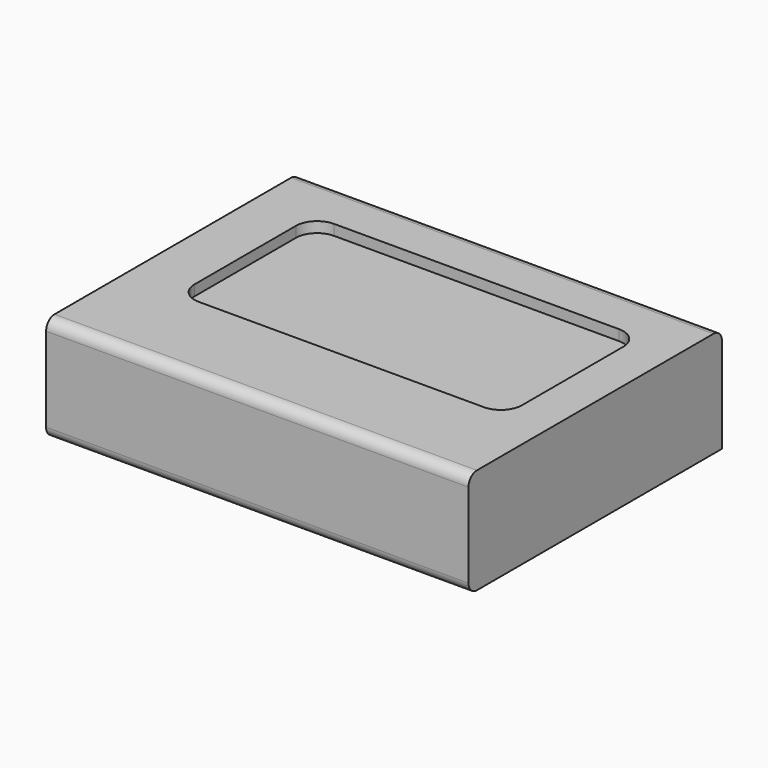
from build123d import *

# Parameters (mm, degrees)
F1_DEPTH = 200
F3_DEPTH = 5


with BuildPart() as f1:
    # F0 (on Right) → F1 (new body)
    with BuildSketch(Plane.YZ):
        with BuildLine():
            ThreePointArc((-23.804154, -13.036255), (-22.339688, -16.571789), (-18.804154, -18.036255))
            Line((-18.804154, -18.036255), (126.195846, -18.036255))
            Line((126.195846, -18.036255), (126.195846, 26.963745))
            ThreePointArc((126.195846, 26.963745), (124.73138, 30.499279), (121.195846, 31.963745))
            Line((121.195846, 31.963745), (-18.804154, 31.963745))
            ThreePointArc((-18.804154, 31.963745), (-22.339688, 30.499279), (-23.804154, 26.963745))
            Line((-23.804154, 26.963745), (-23.804154, -13.036255))
        make_face()
    extrude(amount=F1_DEPTH)

    # F2 (on face) → F3 (cut)
    with BuildSketch(Plane.XY.offset(31.963745)):
        with BuildLine():
            ThreePointArc((25.45396, 32.277167), (28.382892, 25.206099), (35.45396, 22.277167))
            Line((35.45396, 22.277167), (170.45396, 22.277167))
            ThreePointArc((170.45396, 22.277167), (177.525028, 25.206099), (180.45396, 32.277167))
            Line((180.45396, 32.277167), (180.45396, 92.277167))
            ThreePointArc((180.45396, 92.277167), (177.525028, 99.348235), (170.45396, 102.277167))
            Line((170.45396, 102.277167), (35.45396, 102.277167))
            ThreePointArc((35.45396, 102.277167), (28.382892, 99.348235), (25.45396, 92.277167))
            Line((25.45396, 92.277167), (25.45396, 32.277167))
        make_face()
    extrude(amount=-F3_DEPTH, mode=Mode.SUBTRACT)


solid = f1.part
